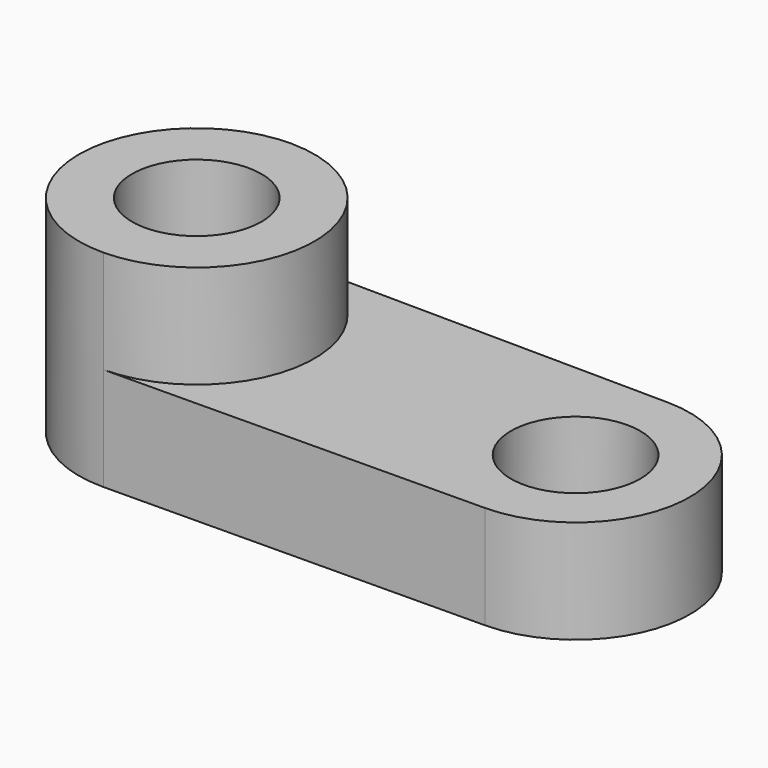
from build123d import *

# Parameters (mm, degrees)
F0_R     = 15.920661
F2_DEPTH = 25.4
F1_R     = 15.920661
F3_DEPTH = 50.754398


with BuildPart() as f2:
    # F0 (on Top) → F2 (new body)
    with BuildSketch(Plane.XY):
        with BuildLine():
            Line((46.842293, 28.102132), (-46.308367, 28.973528))
            ThreePointArc((-46.308367, 28.973528), (-17.604609, 0), (-46.308367, -28.973528))
            Line((-46.308367, -28.973528), (46.842293, -28.102132))
            ThreePointArc((46.842293, -28.102132), (74.682768, 0), (46.842293, 28.102132))
        make_face()
        with Locations((46.579406, 0)):
            Circle(F0_R, mode=Mode.SUBTRACT)
    extrude(amount=F2_DEPTH)

    # F1 (on face) → F3 (join)
    with BuildSketch(Plane.XY):
        with BuildLine():
            ThreePointArc((-46.308367, 28.973528), (-75.554202, 0), (-46.308367, -28.973528))
            ThreePointArc((-46.308367, -28.973528), (-17.604609, 0), (-46.308367, 28.973528))
        make_face()
        with Locations((-46.579406, 0)):
            Circle(F1_R, mode=Mode.SUBTRACT)
    extrude(amount=F3_DEPTH)


solid = f2.part
